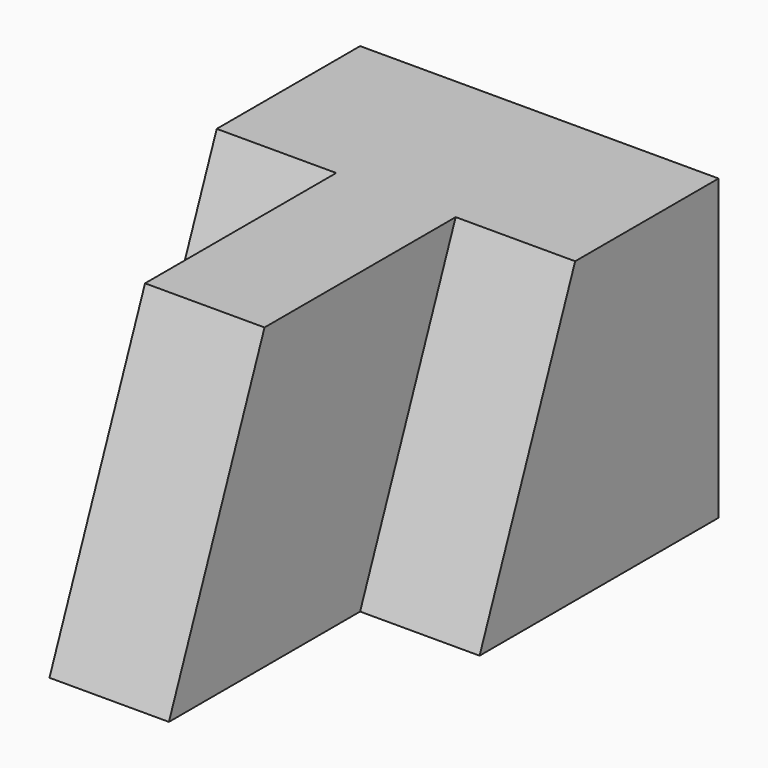
from build123d import *

# Parameters (mm, degrees)
F0_W     = 57.15
F0_H     = 31.75
F1_DEPTH = 38.1
F3_DEPTH = 12.7
F5_DEPTH = 12.7
F7_DEPTH = 12.7


with BuildPart() as f1:
    # F0 (on Right) → F1 (new body)
    with BuildSketch(Plane.YZ):
        with Locations((28.575, 15.875)):
            Rectangle(F0_W, F0_H)
    extrude(amount=-F1_DEPTH)

    # F2 (on face) → F3 (cut)
    with BuildSketch(Plane(origin=(-38.1, 0, 0), x_dir=(0, -1, 0), z_dir=(-1, 0, 0))):
        Polygon((0, 31.75), (-38.1, 31.75), (-25.4, 0), (0, 0), align=None)
    extrude(amount=-F3_DEPTH, mode=Mode.SUBTRACT)

    # F4 (on face) → F5 (cut)
    with BuildSketch(Plane.YZ):
        Polygon((25.4, 0), (38.1, 31.75), (0, 31.75), (0, 0), align=None)
    extrude(amount=-F5_DEPTH, mode=Mode.SUBTRACT)

    # F6 (on face) → F7 (cut)
    with BuildSketch(Plane.YZ.offset(-12.7)):
        Polygon((0, 0), (12.7, 31.75), (0, 31.75), align=None)
    extrude(amount=-F7_DEPTH, mode=Mode.SUBTRACT)


solid = f1.part
